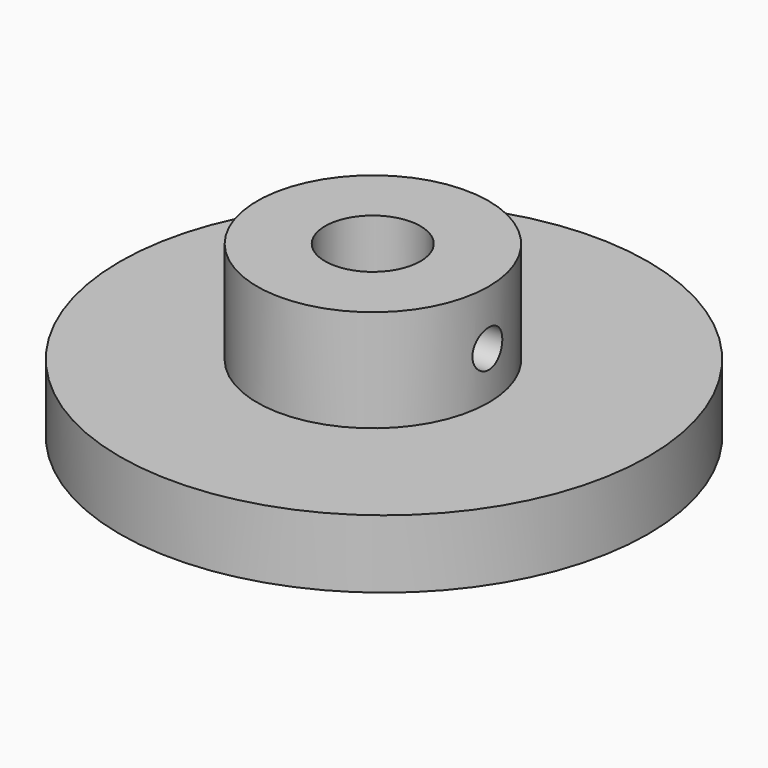
from build123d import *

# Parameters (mm, degrees)
SKETCH014_R             = 38.773757
PAD007_DEPTH            = 10
SKETCH015_R             = 17
PAD008_DEPTH            = 15
SKETCH016_R             = 7
HOLE004_DEPTH           = 33
SKETCH017_R             = 2.75
HOLE005_DEPTH           = 41.347633
HOLE005_TIPS_R          = 2.75
BODY007_PLACEMENT_ANGLE = 180


with BuildPart() as part:
    # Sketch014 → Pad007 (new body)
    with BuildSketch(Plane.XY):
        with Locations((-46.112587, 35.075455)):
            Circle(SKETCH014_R)
    extrude(amount=PAD007_DEPTH)

    # Sketch015 (on Face2 of Pad007) → Pad008 (join)
    with BuildSketch(Plane(origin=(0, 0, 0), x_dir=(1, 0, 0), z_dir=(0, 0, -1))):
        with Locations((-47, -36)):
            Circle(SKETCH015_R)
    extrude(amount=PAD008_DEPTH)

    # Sketch016 (on Face5 of Pad008) → Hole004 (cut)
    with BuildSketch(Plane(origin=(0, 0, -15), x_dir=(1, 0, 0), z_dir=(0, 0, -1))):
        with Locations((-47.024734, -35.997555)):
            Circle(SKETCH016_R)
    extrude(amount=-HOLE004_DEPTH, mode=Mode.SUBTRACT)

    # Sketch017 → Hole005 (cut)
    with BuildSketch(Plane.YZ):
        with Locations((35.974483, -6.968689)):
            Circle(SKETCH017_R)
    extrude(amount=-HOLE005_DEPTH, mode=Mode.SUBTRACT)

    # Hole005 tips → Hole005 tip 1 section 0
    with BuildSketch(Plane.YZ.offset(-41.347633), mode=Mode.PRIVATE) as hole005_tip_1_s0:
        with Locations((35.974483, -6.968689)):
            Circle(HOLE005_TIPS_R)
    loft([hole005_tip_1_s0.sketch, Vertex(-43, 35.974483, -6.968689)], mode=Mode.SUBTRACT)


with BuildPart() as part_1:
    # Body007 placement: moved
    add(part.part.moved(Location((1, 71, -285))).rotate(Axis((1, 71, -285), (1, 0, 0)), BODY007_PLACEMENT_ANGLE))


solid = part_1.part
